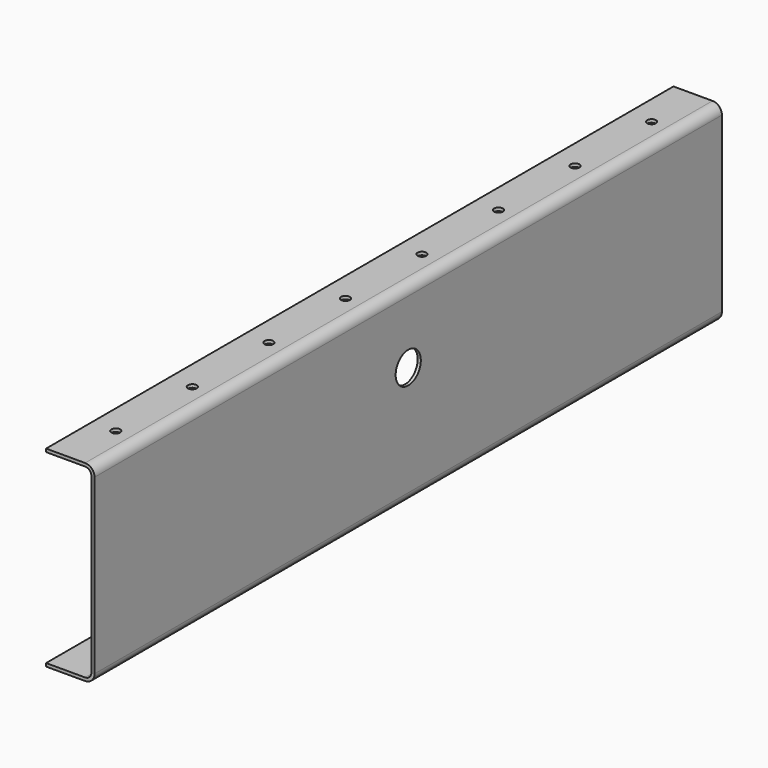
from build123d import *

# Parameters (mm, degrees)
F1_DEPTH = 1246
F2_R     = 25
F3_DEPTH = 5
F4_R     = 7
F5_DEPTH = 305.001


with BuildPart() as f1:
    # F0 (on Front) → F1 (new body)
    with BuildSketch(Plane.XZ):
        with BuildLine():
            Line((0, 5), (0, 0))
            Line((0, 0), (62, 0))
            ThreePointArc((62, 0), (72.606602, 4.393398), (77, 15))
            Line((77, 15), (77, 290))
            ThreePointArc((77, 290), (72.606602, 300.606602), (62, 305))
            Line((62, 305), (0, 305))
            Line((0, 305), (0, 300))
            Line((0, 300), (62, 300))
            ThreePointArc((62, 300), (69.071068, 297.071068), (72, 290))
            Line((72, 290), (72, 15))
            ThreePointArc((72, 15), (69.071068, 7.928932), (62, 5))
            Line((62, 5), (0, 5))
        make_face()
    extrude(amount=F1_DEPTH)

    # F2 (on face) → F3 (cut, through all)
    with BuildSketch(Plane.YZ.offset(77)):
        with Locations((-623, 190)):
            Circle(F2_R)
    extrude(amount=-F3_DEPTH, mode=Mode.SUBTRACT)

    # F4 (on face) → F5 (cut, through all)
    with BuildSketch(Plane.XY.offset(305)):
        with Locations((38, -1155)):
            Circle(F4_R)
        with Locations((38, -1003)):
            Circle(F4_R)
        with Locations((38, -851)):
            Circle(F4_R)
        with BuildLine():
            ThreePointArc((45, -699), (38, -692), (31, -699))
            ThreePointArc((31, -699), (38, -706), (45, -699))
        make_face()
        with Locations((38, -547)):
            Circle(F4_R)
        with Locations((38, -395)):
            Circle(F4_R)
        with Locations((38, -243)):
            Circle(F4_R)
        with Locations((38, -91)):
            Circle(F4_R)
    extrude(amount=-F5_DEPTH, mode=Mode.SUBTRACT)


solid = f1.part
